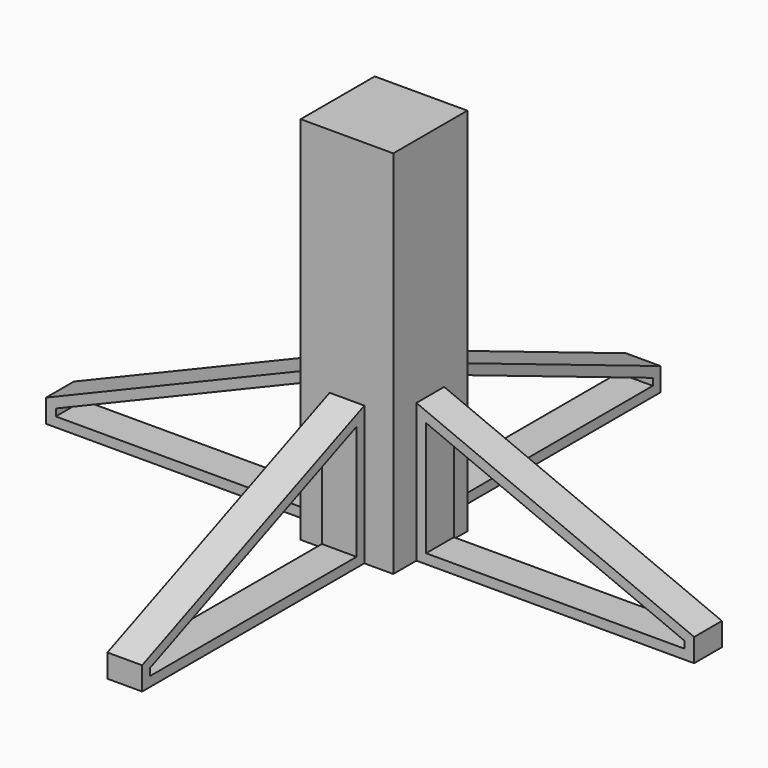
from build123d import *

# Parameters (mm, degrees)
F0_W     = 25.4
F0_H     = 25.4
F1_DEPTH = 101.6
F3_DEPTH = 4.7625
F5_COUNT = 4
F5_ANGLE = 270


with BuildPart() as f1:
    # F0 (on Top) → F1 (new body)
    with BuildSketch(Plane.XY):
        Rectangle(F0_W, F0_H)
    extrude(amount=-F1_DEPTH)

    # F2 (on Right) → F3 (join, symmetric)
    with BuildSketch(Plane.YZ):
        Polygon((-88.9, -101.6), (-12.7, -101.6), (-12.7, -63.5), (-88.9, -95.25), align=None)
        Polygon((-15.3570100665, -67.4855150998), (-15.3570100665, -98.9429899335), (-86.2429899335, -98.9429899335), (-86.2429899335, -97.0213400443), align=None, mode=Mode.SUBTRACT)
    extrude(amount=F3_DEPTH, both=True)

    # F5: F1 ×4 about axis
    f5_axis = Axis((0, 0, -52.7451187372), (0, 0, -1))


with BuildPart() as f1_1:
    add(f1.part)
    for i in range(1, F5_COUNT):
        add(f1.part.rotate(f5_axis, i * F5_ANGLE / (F5_COUNT - 1)))


solid = f1_1.part
